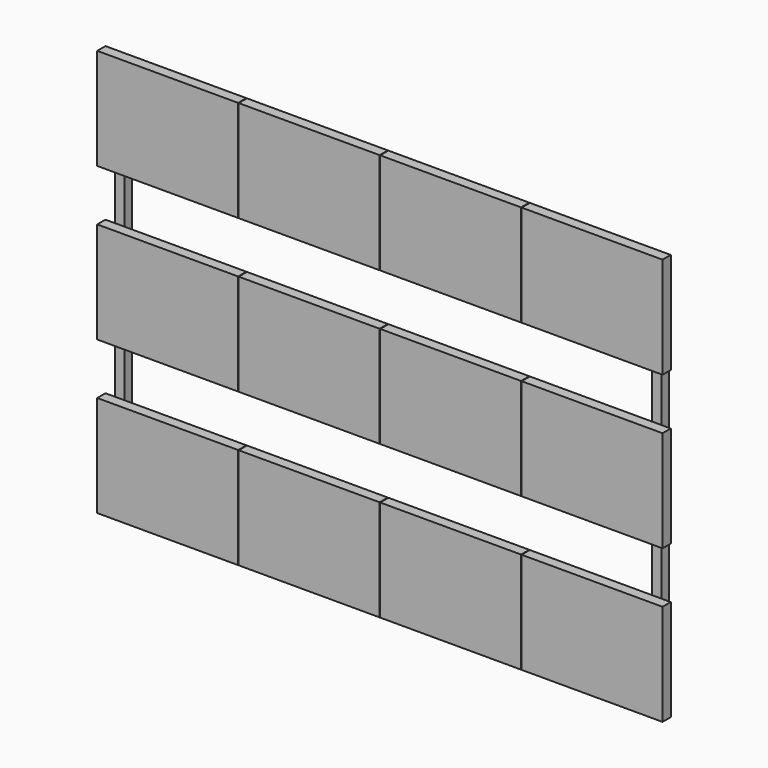
from build123d import *

# Parameters (mm, degrees)
F0_W     = 690
F0_H     = 490
F0_W_2   = 666
F0_H_2   = 80
F0_H_3   = 89
F1_DEPTH = 12
F2_W     = 178
F2_H     = 128
F3_DEPTH = 13


with BuildPart() as f1:
    # F0 (on Front) → F1 (new body)
    with BuildSketch(Plane.XZ):
        with Locations((357, -257)):
            Rectangle(F0_W, F0_H)
        with Locations((357, -450)):
            Rectangle(F0_W_2, F0_H_2, mode=Mode.SUBTRACT)
        with Locations((357, -353.5)):
            Rectangle(F0_W_2, F0_H_3, mode=Mode.SUBTRACT)
        with Locations((357, -257)):
            Rectangle(F0_W_2, F0_H_2, mode=Mode.SUBTRACT)
        with Locations((357, -160.5)):
            Rectangle(F0_W_2, F0_H_3, mode=Mode.SUBTRACT)
        with Locations((357, -64)):
            Rectangle(F0_W_2, F0_H_2, mode=Mode.SUBTRACT)
    extrude(amount=-F1_DEPTH)


with BuildPart() as f3:
    # F2 (on Front) → F3 (new body)
    with BuildSketch(Plane.XZ):
        with Locations((89, -64)):
            Rectangle(F2_W, F2_H)
        with Locations((267.666667, -64)):
            Rectangle(F2_W, F2_H)
        with Locations((446.333333, -64)):
            Rectangle(F2_W, F2_H)
        with Locations((625, -64)):
            Rectangle(F2_W, F2_H)
        with Locations((89, -257)):
            Rectangle(F2_W, F2_H)
        with Locations((267.666667, -257)):
            Rectangle(F2_W, F2_H)
        with Locations((446.333333, -257)):
            Rectangle(F2_W, F2_H)
        with Locations((625, -257)):
            Rectangle(F2_W, F2_H)
        with Locations((89, -450)):
            Rectangle(F2_W, F2_H)
        with Locations((267.666667, -450)):
            Rectangle(F2_W, F2_H)
        with Locations((446.333333, -450)):
            Rectangle(F2_W, F2_H)
        with Locations((625, -450)):
            Rectangle(F2_W, F2_H)
    extrude(amount=F3_DEPTH)


solid = Compound([f1.part, f3.part])
